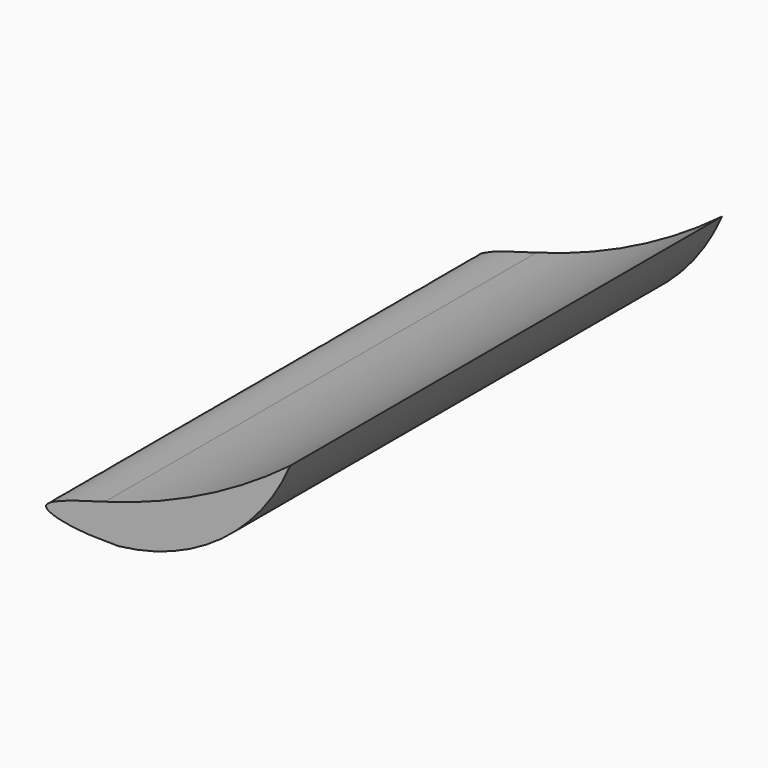
from build123d import *

# Parameters (mm, degrees)
F2_DEPTH = 250


with BuildPart() as f2:
    # F1 (on offset) → F2 (new body)
    with BuildSketch(Plane.XZ.offset(-253)):
        with BuildLine():
            ThreePointArc((-917.283, 223.488), (-958.2423844794, 198.1932751625), (-1003.159, 180.873))
            add(Edge.make_bspline(
                [(-996.954, 164.789), (-1005.2097586157, 164.7947284011), (-1018.8625222657, 164.8042016076), (-1038.3169357309, 170.9363415679), (-1016.7184359066, 177.0407077924), (-1003.159, 180.873)],
                knots=[0, 0, 0, 0, 0.3627970971, 0.5999670351, 1, 1, 1, 1], degree=3))
            ThreePointArc((-996.954, 164.789), (-949.1685587415, 183.3482008466), (-917.283, 223.488))
        make_face()
    extrude(amount=-F2_DEPTH)


solid = f2.part
